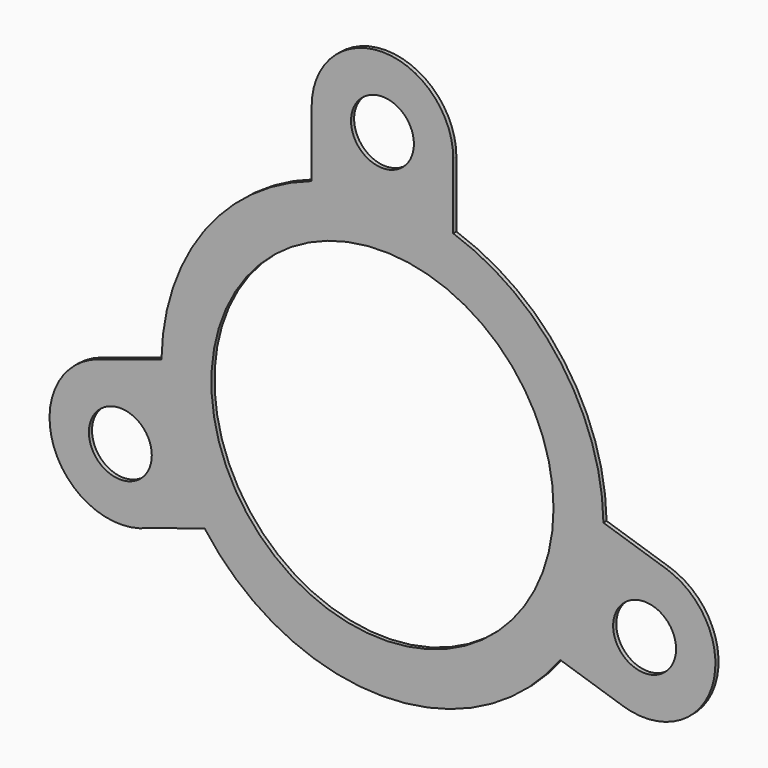
from build123d import *

# Parameters (mm, degrees)
F0_R     = 43.5
F0_R_2   = 8
F1_DEPTH = 1


with BuildPart() as f1:
    # F0 (on Front) → F1 (new body)
    with BuildSketch(Plane.XZ):
        with BuildLine():
            ThreePointArc((45.640147, -32.998988), (53.816861, -17.1845), (56.63676, 0.394033))
            ThreePointArc((56.63676, 0.394033), (56.635003, 0.838343), (56.629735, 1.282625))
            ThreePointArc((56.629735, 1.282625), (45.838331, 33.517096), (18.43676, 53.633492))
            ThreePointArc((18.43676, 53.633492), (0.43676, 56.594033), (-17.56324, 53.633492))
            ThreePointArc((-17.56324, 53.633492), (-44.971709, 33.507639), (-55.75658, 1.259218))
            ThreePointArc((-55.75658, 1.259218), (-53.083995, -16.751485), (-44.793563, -32.962495))
            ThreePointArc((-44.793563, -32.962495), (0.414081, -55.805963), (45.640147, -32.998988))
        make_face()
        with Locations((0.43676, 0.394033)):
            Circle(F0_R, mode=Mode.SUBTRACT)
        with BuildLine():
            Line((-59.273957, -37.611117), (-44.793563, -32.962495))
            ThreePointArc((-44.793563, -32.962495), (-53.083995, -16.751485), (-55.75658, 1.259218))
            Line((-55.75658, 1.259218), (-71.714889, -3.863858))
            ThreePointArc((-71.714889, -3.863858), (-83.101856, -27.22847), (-59.273957, -37.611117))
        make_face()
        with Locations((-66.212935, -21.002367)):
            Circle(F0_R_2, mode=Mode.SUBTRACT)
        with BuildLine():
            ThreePointArc((56.629735, 1.282625), (56.635003, 0.838343), (56.63676, 0.394033))
            ThreePointArc((56.63676, 0.394033), (53.816861, -17.1845), (45.640147, -32.998988))
            Line((45.640147, -32.998988), (61.600657, -38.115417))
            ThreePointArc((61.600657, -38.115417), (84.236257, -26.469404), (72.590245, -3.833804))
            Line((72.590245, -3.833804), (56.629735, 1.282625))
        make_face()
        with Locations((67.095451, -20.97461)):
            Circle(F0_R_2, mode=Mode.SUBTRACT)
        with BuildLine():
            ThreePointArc((-17.56324, 53.633492), (0.43676, 56.594033), (18.43676, 53.633492))
            Line((18.43676, 53.633492), (18.43676, 70.393879))
            ThreePointArc((18.43676, 70.393879), (0.43676, 88.393879), (-17.56324, 70.393879))
            Line((-17.56324, 70.393879), (-17.56324, 53.633492))
        make_face()
        with Locations((0.43676, 70.393879)):
            Circle(F0_R_2, mode=Mode.SUBTRACT)
    extrude(amount=F1_DEPTH)


solid = f1.part
